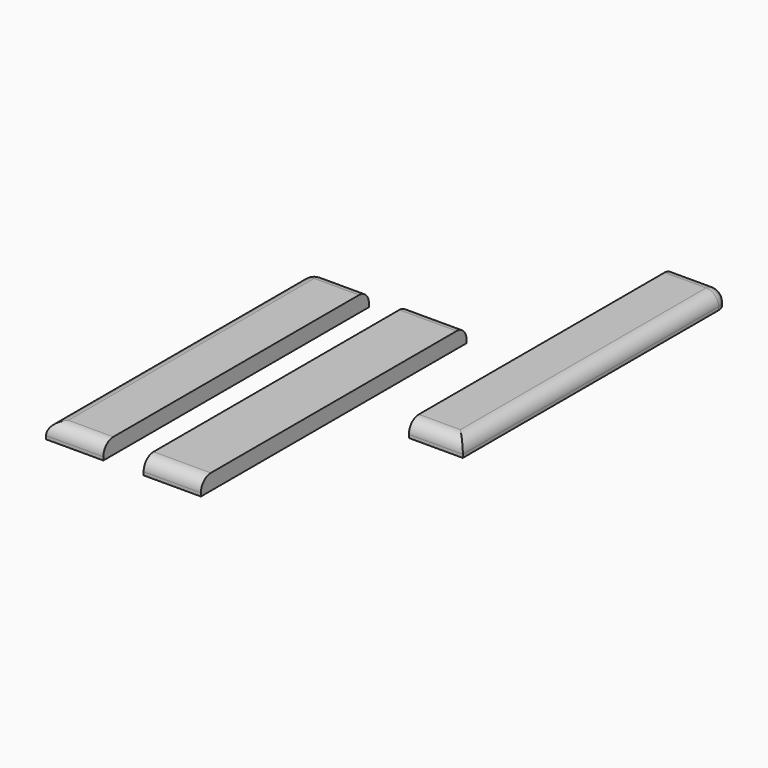
from build123d import *

# Parameters (mm, degrees)
F0_W     = 69
F0_H     = 400
F3_DEPTH = 19
F1_W     = 69
F1_H     = 400
F4_DEPTH = 19
F2_W     = 65
F2_H     = 400
F5_DEPTH = 19
F6_R     = 15
F7_R     = 15
F8_R     = 15
F9_R     = 15
F10_R    = 15


with BuildPart() as f3:
    # F0 (on Top) → F3 (new body)
    with BuildSketch(Plane.XY):
        with Locations((-820.405311, 200)):
            Rectangle(F0_W, F0_H)
    extrude(amount=F3_DEPTH)

    # F6
    f6_edges = [f3.edges().sort_by_distance(p)[0] for p in [
        (-854.905311, 200, 19),
        (-820.405311, 0, 19),
    ]]
    fillet(f6_edges, radius=F6_R)

    # F10
    f10_edges = [f3.edges().sort_by_distance(p)[0] for p in [
        (-812.905311, 400, 19),
    ]]
    fillet(f10_edges, radius=F10_R)


with BuildPart() as f4:
    # F1 (on Top) → F4 (new body)
    with BuildSketch(Plane.XY):
        with Locations((-702.860493, 200)):
            Rectangle(F1_W, F1_H)
    extrude(amount=F4_DEPTH)

    # F7
    f7_edges = [f4.edges().sort_by_distance(p)[0] for p in [
        (-702.860493, 0, 19),
        (-702.860493, 400, 19),
    ]]
    fillet(f7_edges, radius=F7_R)


with BuildPart() as f5:
    # F2 (on Top) → F5 (new body)
    with BuildSketch(Plane.XY):
        with Locations((-557.535231, 415.318063)):
            Rectangle(F2_W, F2_H)
    extrude(amount=F5_DEPTH)

    # F8
    f8_edges = [f5.edges().sort_by_distance(p)[0] for p in [
        (-525.035231, 415.318063, 19),
        (-557.535231, 215.318063, 19),
    ]]
    fillet(f8_edges, radius=F8_R)

    # F9
    f9_edges = [f5.edges().sort_by_distance(p)[0] for p in [
        (-565.035231, 615.318063, 19),
    ]]
    fillet(f9_edges, radius=F9_R)


solid = Compound([f3.part, f4.part, f5.part])
